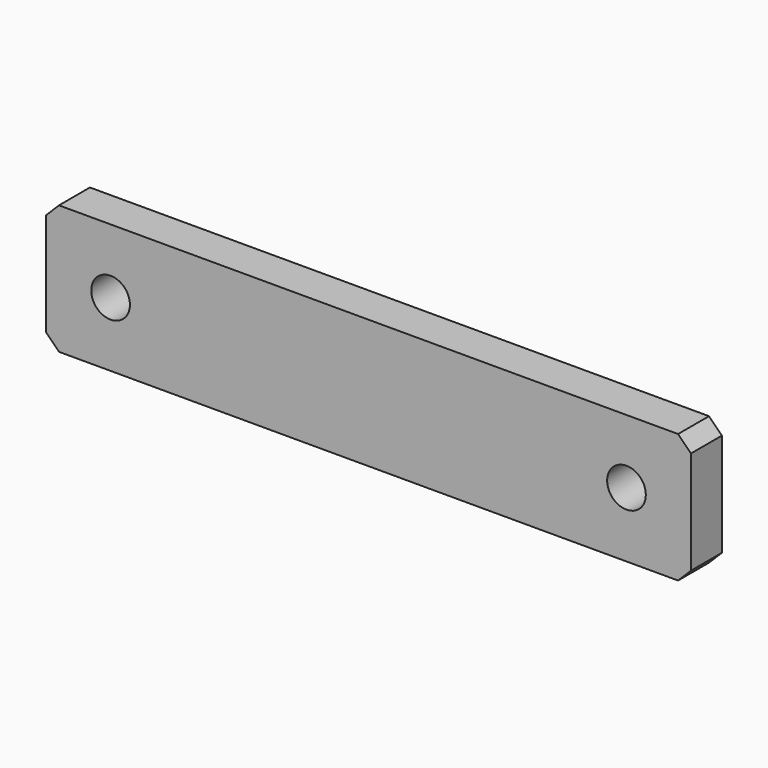
from build123d import *

# Parameters (mm, degrees)
F0_W     = 50
F0_H     = 10
F1_DEPTH = 3
F2_R     = 1.5
F3_DEPTH = 5
F4_SIZE  = 1


with BuildPart() as f1:
    # F0 (on Front) → F1 (new body)
    with BuildSketch(Plane.XZ):
        with Locations((-25, 5)):
            Rectangle(F0_W, F0_H)
    extrude(amount=F1_DEPTH)

    # F2 (on face) → F3 (cut)
    with BuildSketch(Plane.XZ.offset(3)):
        with Locations((-45, 5)):
            Circle(F2_R)
        with Locations((-5, 5.036021)):
            Circle(F2_R)
    extrude(amount=-F3_DEPTH, mode=Mode.SUBTRACT)

    # F4
    f4_edges = [f1.edges().sort_by_distance(p)[0] for p in [
        (0, -1.5, 10),
        (0, -1.5, 0),
        (-50, -1.5, 10),
        (-50, -1.5, 0),
    ]]
    chamfer(f4_edges, length=F4_SIZE)


solid = f1.part
